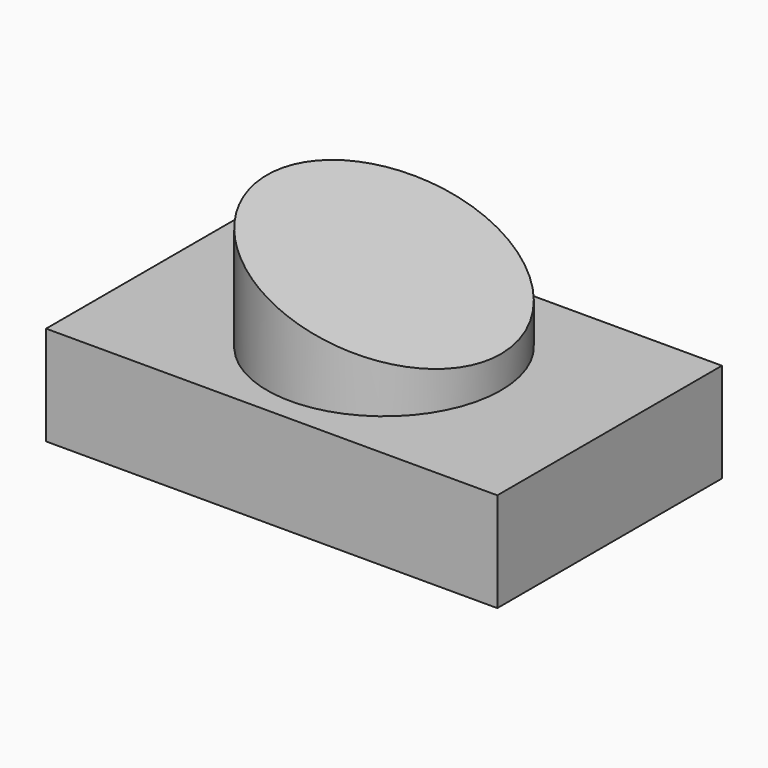
from build123d import *

# Parameters (mm, degrees)
F0_W     = 122.473546
F0_H     = 26.955904
F1_DEPTH = 76.2
F2_R     = 31.75
F3_DEPTH = 38.1
F5_DEPTH = 92.71


with BuildPart() as f1:
    # F0 (on Front) → F1 (new body)
    with BuildSketch(Plane.XZ):
        Rectangle(F0_W, F0_H)
    extrude(amount=F1_DEPTH)

    # F2 (on face) → F3 (join)
    with BuildSketch(Plane.XY.offset(13.477952)):
        with Locations((0, -38.1)):
            Circle(F2_R)
    extrude(amount=F3_DEPTH)

    # F4 (on Front) → F5 (cut)
    with BuildSketch(Plane.XZ):
        Polygon((38.983259, 69.250525), (-120.331847, 75.206235), (38.983259, 19.648822), align=None)
    extrude(amount=F5_DEPTH, mode=Mode.SUBTRACT)


solid = f1.part
